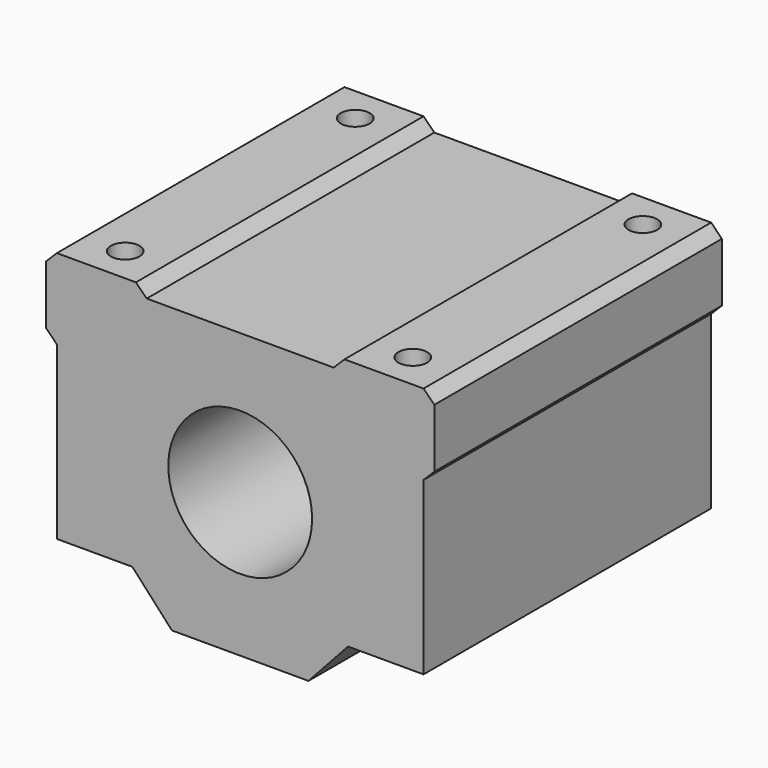
from build123d import *

# Parameters (mm, degrees)
F0_R     = 10
F1_DEPTH = 25
F2_R     = 2
F3_DEPTH = 40


with BuildPart() as f1:
    # F0 (on Front) → F1 (new body, symmetric)
    with BuildSketch(Plane.XZ):
        Polygon((-15, -14), (-9.5, -20), (9.5, -20), (15, -14), (25.5, -14), (25.5, 9.815577), (27, 11.315577), (27, 19.5), (25.5, 21), (14.5, 21), (13, 19.5), (-13, 19.5), (-14.5, 21), (-25.5, 21), (-27, 19.5), (-27, 11.315577), (-25.5, 9.815577), (-25.5, -14), align=None)
        Circle(F0_R, mode=Mode.SUBTRACT)
    extrude(amount=F1_DEPTH, both=True)

    # F2 (on face) → F3 (cut)
    with BuildSketch(Plane.XY.offset(21)):
        with Locations((-20, 20)):
            Circle(F2_R)
        with Locations((20, 20)):
            Circle(F2_R)
        with Locations((20, -20)):
            Circle(F2_R)
        with Locations((-20, -20)):
            Circle(F2_R)
    extrude(amount=-F3_DEPTH, mode=Mode.SUBTRACT)


solid = f1.part
